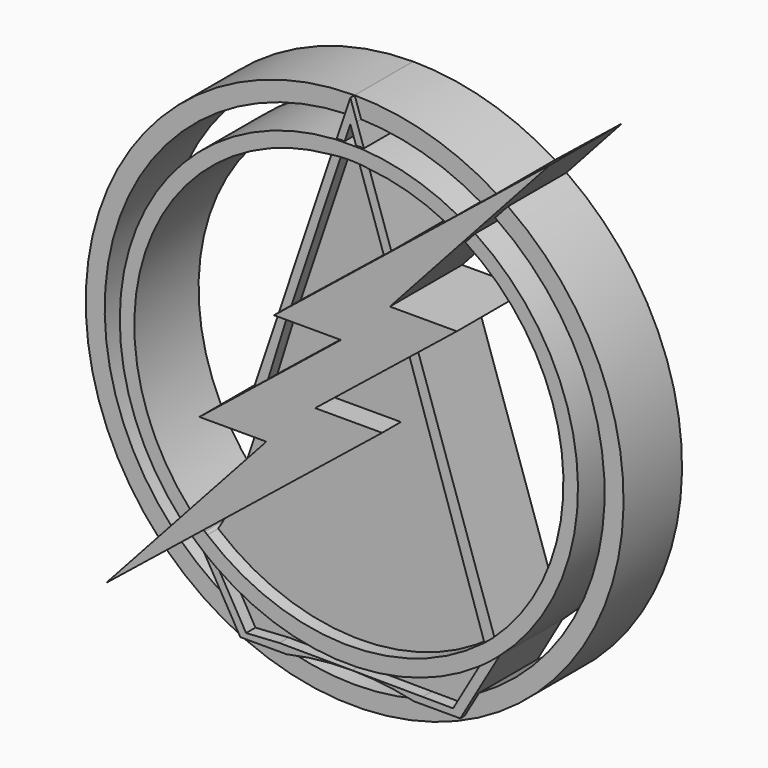
from build123d import *

# Parameters (mm, degrees)
F1_DEPTH = 25.4
F2_DEPTH = 18.796
F3_DEPTH = 18.796
F4_DEPTH = 22.606
F5_DEPTH = 20.574
F6_DEPTH = 22.098


with BuildPart() as f1:
    # F0 (on Front) → F1 (new body)
    with BuildSketch(Plane.XZ):
        Polygon((13.7275354937, 25.6381928921), (-21.0261260735, -7.6240425101), (-7.2573488637, -2.2206306458), (16.6550957862, 16.9648912752), (19.1089526433, 18.9336788757), (32.6213649279, 29.775007978), align=None)
        Polygon((-23.1608877225, -1.5977704296), (-27.0754860703, -4.7453194722), (-39.8367680609, -15.0060812011), (-21.0261260735, -7.6240425101), (13.7275354937, 25.6381928921), (0, 17.0248374343), align=None)
        Polygon((13.7275354937, 25.6381928921), (2.5570897851, 25.6381928921), (-18.8417136669, 17.0248374343), (-17.3612944782, 17.0248374343), (0, 17.0248374343), align=None)
        with BuildLine():
            ThreePointArc((43.1477435478, 62.1894271325), (42.4475593988, 62.6694289221), (41.7420359426, 63.1415477772))
            Line((41.7420359426, 63.1415477772), (2.5570897851, 25.6381928921))
            Line((2.5570897851, 25.6381928921), (13.7275354937, 25.6381928921))
            Line((13.7275354937, 25.6381928921), (32.6213649279, 29.775007978))
            Line((32.6213649279, 29.775007978), (13.779651261, 29.775007978))
            Line((13.779651261, 29.775007978), (32.7684060563, 50.7334499205))
            Line((32.7684060563, 50.7334499205), (33.9830345465, 52.0740707757))
            Line((33.9830345465, 52.0740707757), (35.5503199354, 53.8039293255))
            Line((35.5503199354, 53.8039293255), (39.5337591645, 58.200567268))
            Line((39.5337591645, 58.200567268), (43.1477435478, 62.1894271325))
        make_face()
        with BuildLine():
            Line((30.5822823135, 56.7751007649), (28.6251622832, 55.2010468053))
            Line((28.6251622832, 55.2010468053), (27.1000362942, 53.9744329212))
            Line((27.1000362942, 53.9744329212), (11.5323184446, 41.4537762705))
            Line((11.5323184446, 41.4537762705), (9.4242030929, 39.758281224))
            Line((9.4242030929, 39.758281224), (-16.5802602802, 18.8436577431))
            Line((-16.5802602802, 18.8436577431), (-18.8417136669, 17.0248374343))
            Line((-18.8417136669, 17.0248374343), (2.5570897851, 25.6381928921))
            Line((2.5570897851, 25.6381928921), (41.7420359426, 63.1415477772))
            ThreePointArc((41.7420359426, 63.1415477772), (40.8434785852, 63.7264692055), (39.9367262414, 64.2986043196))
            Line((39.9367262414, 64.2986043196), (35.5107151733, 60.738894062))
            Line((35.5107151733, 60.738894062), (30.5822823135, 56.7751007649))
        make_face()
        with BuildLine():
            Line((58.8150298646, 79.4818675376), (39.9367262414, 64.2986043196))
            ThreePointArc((39.9367262414, 64.2986043196), (40.8434785852, 63.7264692055), (41.7420359426, 63.1415477772))
            Line((41.7420359426, 63.1415477772), (58.8150298646, 79.4818675376))
        make_face()
        with BuildLine():
            Line((43.1477435478, 62.1894271325), (58.8150298646, 79.4818675376))
            Line((58.8150298646, 79.4818675376), (41.7420359426, 63.1415477772))
            ThreePointArc((41.7420359426, 63.1415477772), (42.4475593988, 62.6694289221), (43.1477435478, 62.1894271325))
        make_face()
        Polygon((-7.2573488637, -7.6240425101), (-66.0805851221, -64.667455852), (-52.9379965433, -54.1001029788), (-48.7491738822, -50.7320627395), (-44.1332899001, -47.0206420731), (-42.3175758106, -45.5607096264), (-40.9106025316, -44.4294269241), (-40.2473351871, -43.896124064), (-37.8220151329, -41.9460354122), (11.5843648032, -2.2206306458), align=None)
        Polygon((-45.6765273059, -42.1925388832), (-47.2325225164, -43.9064559616), (-51.1911550871, -48.2668601096), (-54.7865956088, -52.2272109339), (-66.0805851221, -64.667455852), (-7.2573488637, -7.6240425101), (-21.0261260735, -7.6240425101), (-39.8367680609, -15.0060812011), (-30.4159112275, -15.0060812011), (-28.1267369584, -15.0060812011), (-20.995054394, -15.0060812011), (-32.3257032267, -27.4867060852), (-35.0700134216, -30.5095432249), (-44.4713415872, -40.8650358344), align=None)
        Polygon((-21.0261260735, -7.6240425101), (-7.2573488637, -7.6240425101), (11.5843648032, -2.2206306458), (-7.2573488637, -2.2206306458), align=None)
    extrude(amount=F1_DEPTH)

    # F0 (on Front) → F2, piece 2 (join)
    with BuildSketch(Plane.XZ):
        with BuildLine():
            ThreePointArc((2.4589032175, 60.4613041578), (-0.0613450477, 60.5437035847), (-2.5813038207, 60.4528808656))
            Line((-2.5813038207, 60.4528808656), (-16.5802602802, 18.8436577431))
            Line((-16.5802602802, 18.8436577431), (9.4242030929, 39.758281224))
            Line((9.4242030929, 39.758281224), (2.4589032175, 60.4613041578))
        make_face()
        with BuildLine():
            Line((-7.2573488637, -2.2206306458), (11.5843648032, -2.2206306458))
            Line((11.5843648032, -2.2206306458), (-37.8220151329, -41.9460354122))
            Line((-37.8220151329, -41.9460354122), (-39.8350932268, -45.3685056483))
            ThreePointArc((-39.8350932268, -45.3685056483), (-1.3491739812, -59.8555817615), (37.7309856339, -47.0578288748))
            Line((37.7309856339, -47.0578288748), (16.6550957862, 16.9648912752))
            Line((16.6550957862, 16.9648912752), (-7.2573488637, -2.2206306458))
        make_face()
        Polygon((-17.3612944782, 17.0248374343), (-23.1608877225, -1.5977704296), (0, 17.0248374343), align=None)
        Polygon((-28.1267369584, -15.0060812011), (-32.3257032267, -27.4867060852), (-20.995054394, -15.0060812011), align=None)
    extrude(amount=F2_DEPTH)


with BuildPart() as f2:
    # F0 (on Front) → F2 (new body)
    with BuildSketch(Plane.XZ):
        with BuildLine():
            Line((0, 69.1748913593), (-1.6084446429, 64.3940970036))
            ThreePointArc((-1.6084446429, 64.3940970036), (0, 64.3982961774), (1.6084446429, 64.3940970036))
            Line((1.6084446429, 64.3940970036), (0, 69.1748913593))
        make_face()
    extrude(amount=F2_DEPTH)


with BuildPart() as f3:
    # F0 (on Front) → F3 (new body)
    with BuildSketch(Plane.XZ):
        with BuildLine():
            ThreePointArc((36.4145183992, -53.2228419772), (-0.5922931955, -64.4851707538), (-37.385990835, -52.5449878453))
            Line((-37.385990835, -52.5449878453), (-29.3424943359, -66.4793080991))
            Line((-29.3424943359, -66.4793080991), (-19.9506755039, -65.8834097105))
            Line((-19.9506755039, -65.8834097105), (0.5055414034, -66.0117107098))
            Line((0.5055414034, -66.0117107098), (20.3213670324, -66.1359951874))
            Line((20.3213670324, -66.1359951874), (28.9293192396, -66.1899840982))
            Line((28.9293192396, -66.1899840982), (36.4145183992, -53.2228419772))
        make_face()
    extrude(amount=F3_DEPTH)


with BuildPart() as f4:
    # F0 (on Front) → F4 (new body)
    with BuildSketch(Plane.XZ):
        with BuildLine():
            ThreePointArc((-1.6084446429, 64.3940970036), (-2.7146721036, 64.3863345065), (-3.8208645548, 64.3745994351))
            ThreePointArc((-3.8208645548, 64.3745994351), (-59.8565687483, 23.9974839526), (-47.2325225164, -43.9064559616))
            Line((-47.2325225164, -43.9064559616), (-45.6765273059, -42.1925388832))
            ThreePointArc((-45.6765273059, -42.1925388832), (-49.4374847216, 37.7159195637), (28.6251622832, 55.2010468053))
            Line((28.6251622832, 55.2010468053), (30.5822823135, 56.7751007649))
            ThreePointArc((30.5822823135, 56.7751007649), (17.6162488521, 62.035117754), (3.8208645548, 64.3745994351))
            ThreePointArc((3.8208645548, 64.3745994351), (2.7146721036, 64.3863345065), (1.6084446429, 64.3940970036))
            ThreePointArc((1.6084446429, 64.3940970036), (0, 64.3982961774), (-1.6084446429, 64.3940970036))
        make_face()
        with BuildLine():
            ThreePointArc((28.6251622832, 55.2010468053), (-49.4374847216, 37.7159195637), (-45.6765273059, -42.1925388832))
            Line((-45.6765273059, -42.1925388832), (-44.4713415872, -40.8650358344))
            ThreePointArc((-44.4713415872, -40.8650358344), (-56.2995857229, 21.863394607), (-5.2359949287, 60.1683948051))
            ThreePointArc((-5.2359949287, 60.1683948051), (-3.9112367627, 60.3347821324), (-2.5813038207, 60.4528808656))
            ThreePointArc((-2.5813038207, 60.4528808656), (-0.0613450477, 60.5437035847), (2.4589032175, 60.4613041578))
            ThreePointArc((2.4589032175, 60.4613041578), (3.8502354918, 60.3412676897), (5.2359949287, 60.1683948051))
            ThreePointArc((5.2359949287, 60.1683948051), (16.4619567417, 58.1089954873), (27.1000362942, 53.9744329212))
            Line((27.1000362942, 53.9744329212), (28.6251622832, 55.2010468053))
        make_face()
    extrude(amount=F4_DEPTH)


with BuildPart() as f4b:
    # F0 (on Front) → F4, piece 2 (new body)
    with BuildSketch(Plane.XZ):
        with BuildLine():
            Line((-42.3175758106, -45.5607096264), (-44.1332899001, -47.0206420731))
            ThreePointArc((-44.1332899001, -47.0206420731), (-43.0555206376, -48.0094803242), (-41.955601974, -48.9736206684))
            ThreePointArc((-41.955601974, -48.9736206684), (-39.7109651513, -50.8107006951), (-37.385990835, -52.5449878453))
            ThreePointArc((-37.385990835, -52.5449878453), (-0.5922931955, -64.4851707538), (36.4145183992, -53.2228419772))
            ThreePointArc((36.4145183992, -53.2228419772), (39.2426160221, -51.1732854731), (41.955601974, -48.9736206684))
            ThreePointArc((41.955601974, -48.9736206684), (64.3630187176, 4.0112192572), (35.5503199354, 53.8039293255))
            Line((35.5503199354, 53.8039293255), (33.9830345465, 52.0740707757))
            ThreePointArc((33.9830345465, 52.0740707757), (48.9949357644, -38.2890552714), (-42.3175758106, -45.5607096264))
        make_face()
        with BuildLine():
            Line((-40.9106025316, -44.4294269241), (-42.3175758106, -45.5607096264))
            ThreePointArc((-42.3175758106, -45.5607096264), (48.9949357644, -38.2890552714), (33.9830345465, 52.0740707757))
            Line((33.9830345465, 52.0740707757), (32.7684060563, 50.7334499205))
            ThreePointArc((32.7684060563, 50.7334499205), (60.1967751257, 4.8989428222), (40.5404716001, -44.7674160384))
            ThreePointArc((40.5404716001, -44.7674160384), (39.1524807914, -45.9331711534), (37.7309856339, -47.0578288748))
            ThreePointArc((37.7309856339, -47.0578288748), (-1.3491739812, -59.8555817615), (-39.8350932268, -45.3685056483))
            ThreePointArc((-39.8350932268, -45.3685056483), (-40.1889062117, -45.06927962), (-40.5404716001, -44.7674160384))
            ThreePointArc((-40.5404716001, -44.7674160384), (-40.725887694, -44.5988054531), (-40.9106025316, -44.4294269241))
        make_face()
    extrude(amount=F4_DEPTH)


with BuildPart() as f5:
    # F0 (on Front) → F5 (new body)
    with BuildSketch(Plane.XZ):
        with BuildLine():
            ThreePointArc((-51.1911550871, -48.2668601096), (-64.9538117324, 27.0411997779), (-1.8157580664, 70.3343953314))
            Line((-1.8157580664, 70.3343953314), (-0.0133107811, 75.6918254712))
            ThreePointArc((-0.0133107811, 75.6918254712), (-69.5814443928, 29.7938788437), (-54.7865956088, -52.2272109339))
            Line((-54.7865956088, -52.2272109339), (-51.1911550871, -48.2668601096))
        make_face()
    extrude(amount=F5_DEPTH)


with BuildPart() as f5b:
    # F0 (on Front) → F5, piece 2 (new body)
    with BuildSketch(Plane.XZ):
        with BuildLine():
            ThreePointArc((39.9367262414, 64.2986043196), (20.7714404069, 72.7859868639), (0.0133107811, 75.6918254712))
            Line((0.0133107811, 75.6918254712), (1.8157580664, 70.3343953314))
            ThreePointArc((1.8157580664, 70.3343953314), (19.270049618, 67.6674909518), (35.5107151733, 60.738894062))
            Line((35.5107151733, 60.738894062), (39.9367262414, 64.2986043196))
        make_face()
    extrude(amount=F5_DEPTH)


with BuildPart() as f5c:
    # F0 (on Front) → F5, piece 3 (new body)
    with BuildSketch(Plane.XZ):
        with BuildLine():
            Line((-48.7491738822, -50.7320627395), (-52.9379965433, -54.1001029788))
            ThreePointArc((-52.9379965433, -54.1001029788), (58.3504581542, -48.2128266495), (43.1477435478, 62.1894271325))
            Line((43.1477435478, 62.1894271325), (39.5337591645, 58.200567268))
            ThreePointArc((39.5337591645, 58.200567268), (70.3068088053, -2.6789512158), (34.9902415661, -61.0402091997))
            Line((34.9902415661, -61.0402091997), (30.9542473406, -68.0320486426))
            Line((30.9542473406, -68.0320486426), (17.9405825291, -68.0320486426))
            ThreePointArc((17.9405825291, -68.0320486426), (0, -70.3578293013), (-17.9405825291, -68.0320486426))
            Line((-17.9405825291, -68.0320486426), (-30.9542473406, -68.0320486426))
            Line((-30.9542473406, -68.0320486426), (-34.9902415661, -61.0402091997))
            ThreePointArc((-34.9902415661, -61.0402091997), (-42.1857428021, -56.3079678929), (-48.7491738822, -50.7320627395))
        make_face()
    extrude(amount=F5_DEPTH)


with BuildPart() as f6:
    # F0 (on Front) → F6 (new body)
    with BuildSketch(Plane.XZ):
        with BuildLine():
            ThreePointArc((-2.5813038207, 60.4528808656), (-3.9112367627, 60.3347821324), (-5.2359949287, 60.1683948051))
            Line((-5.2359949287, 60.1683948051), (-27.0754860703, -4.7453194722))
            Line((-27.0754860703, -4.7453194722), (-23.1608877225, -1.5977704296))
            Line((-23.1608877225, -1.5977704296), (-17.3612944782, 17.0248374343))
            Line((-17.3612944782, 17.0248374343), (-18.8417136669, 17.0248374343))
            Line((-18.8417136669, 17.0248374343), (-16.5802602802, 18.8436577431))
            Line((-16.5802602802, 18.8436577431), (-2.5813038207, 60.4528808656))
        make_face()
    extrude(amount=F6_DEPTH)


with BuildPart() as f6b:
    # F0 (on Front) → F6, piece 2 (new body)
    with BuildSketch(Plane.XZ):
        with BuildLine():
            Line((-1.8157580664, 70.3343953314), (-3.8208645548, 64.3745994351))
            ThreePointArc((-3.8208645548, 64.3745994351), (-2.7146721036, 64.3863345065), (-1.6084446429, 64.3940970036))
            Line((-1.6084446429, 64.3940970036), (0, 69.1748913593))
            Line((0, 69.1748913593), (1.6084446429, 64.3940970036))
            ThreePointArc((1.6084446429, 64.3940970036), (2.7146721036, 64.3863345065), (3.8208645548, 64.3745994351))
            Line((3.8208645548, 64.3745994351), (1.8157580664, 70.3343953314))
            Line((1.8157580664, 70.3343953314), (0.0133107811, 75.6918254712))
            ThreePointArc((0.0133107811, 75.6918254712), (0, 75.6918266416), (-0.0133107811, 75.6918254712))
            Line((-0.0133107811, 75.6918254712), (-1.8157580664, 70.3343953314))
        make_face()
    extrude(amount=F6_DEPTH)


with BuildPart() as f6c:
    # F0 (on Front) → F6, piece 3 (new body)
    with BuildSketch(Plane.XZ):
        with BuildLine():
            Line((9.4242030929, 39.758281224), (11.5323184446, 41.4537762705))
            Line((11.5323184446, 41.4537762705), (5.2359949287, 60.1683948051))
            ThreePointArc((5.2359949287, 60.1683948051), (3.8502354918, 60.3412676897), (2.4589032175, 60.4613041578))
            Line((2.4589032175, 60.4613041578), (9.4242030929, 39.758281224))
        make_face()
    extrude(amount=F6_DEPTH)


with BuildPart() as f6d:
    # F0 (on Front) → F6, piece 4 (new body)
    with BuildSketch(Plane.XZ):
        with BuildLine():
            Line((19.1089526433, 18.9336788757), (16.6550957862, 16.9648912752))
            Line((16.6550957862, 16.9648912752), (37.7309856339, -47.0578288748))
            ThreePointArc((37.7309856339, -47.0578288748), (39.1524807914, -45.9331711534), (40.5404716001, -44.7674160384))
            Line((40.5404716001, -44.7674160384), (19.1089526433, 18.9336788757))
        make_face()
    extrude(amount=F6_DEPTH)


with BuildPart() as f6e:
    # F0 (on Front) → F6, piece 5 (new body)
    with BuildSketch(Plane.XZ):
        with BuildLine():
            Line((30.9542473406, -68.0320486426), (34.9902415661, -61.0402091997))
            Line((34.9902415661, -61.0402091997), (41.955601974, -48.9736206684))
            ThreePointArc((41.955601974, -48.9736206684), (39.2426160221, -51.1732854731), (36.4145183992, -53.2228419772))
            Line((36.4145183992, -53.2228419772), (28.9293192396, -66.1899840982))
            Line((28.9293192396, -66.1899840982), (20.3213670324, -66.1359951874))
            Line((20.3213670324, -66.1359951874), (0.5055414034, -66.0117107098))
            ThreePointArc((0.5055414034, -66.0117107098), (9.2782171441, -66.5459034649), (17.9405825291, -68.0320486426))
            Line((17.9405825291, -68.0320486426), (30.9542473406, -68.0320486426))
        make_face()
    extrude(amount=F6_DEPTH)


with BuildPart() as f6f:
    # F0 (on Front) → F6, piece 6 (new body)
    with BuildSketch(Plane.XZ):
        with BuildLine():
            Line((-41.955601974, -48.9736206684), (-34.9902415661, -61.0402091997))
            Line((-34.9902415661, -61.0402091997), (-30.9542473406, -68.0320486426))
            Line((-30.9542473406, -68.0320486426), (-17.9405825291, -68.0320486426))
            ThreePointArc((-17.9405825291, -68.0320486426), (-8.7758535826, -66.4892865415), (0.5055414034, -66.0117107098))
            Line((0.5055414034, -66.0117107098), (-19.9506755039, -65.8834097105))
            Line((-19.9506755039, -65.8834097105), (-29.3424943359, -66.4793080991))
            Line((-29.3424943359, -66.4793080991), (-37.385990835, -52.5449878453))
            ThreePointArc((-37.385990835, -52.5449878453), (-39.7109651513, -50.8107006951), (-41.955601974, -48.9736206684))
        make_face()
    extrude(amount=F6_DEPTH)


solid = Compound([f1.part, f2.part, f3.part, f4.part, f4b.part, f5.part, f5b.part, f5c.part, f6.part, f6b.part, f6c.part, f6d.part, f6e.part, f6f.part])
